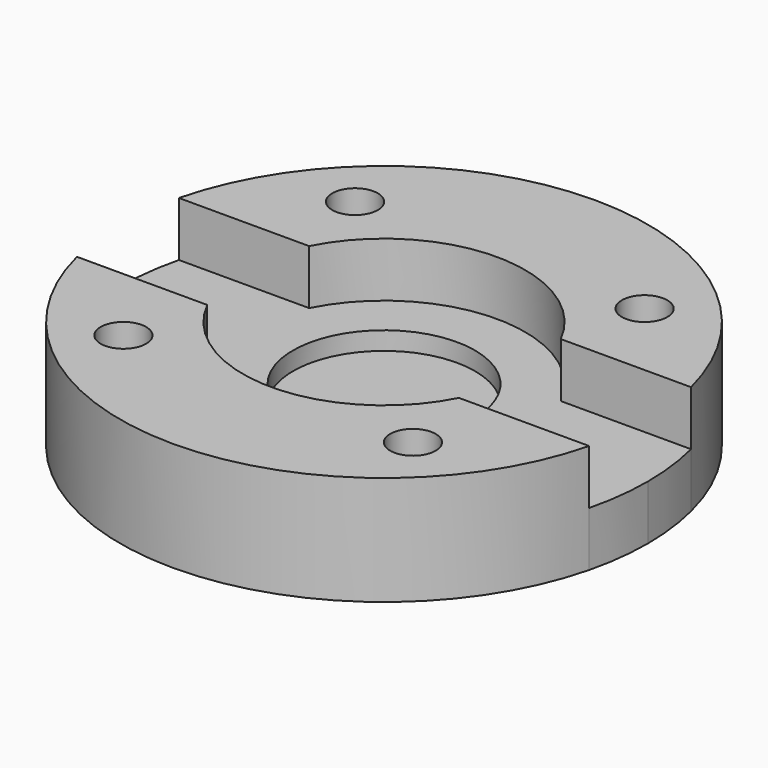
from build123d import *

# Parameters (mm, degrees)
F0_R     = 5
F2_DEPTH = 3
F0_R_2   = 1.25
F3_DEPTH = 6
F4_DEPTH = 2


with BuildPart() as f2:
    # F0 (on Top) → F2 (new body)
    with BuildSketch(Plane.XY):
        with BuildLine():
            Line((-6.914658343, 3.5), (-14.0712472795, 3.5))
            ThreePointArc((-14.0712472795, 3.5), (-14.5, 0), (-14.0712472795, -3.5))
            Line((-14.0712472795, -3.5), (-6.914658343, -3.5))
            ThreePointArc((-6.914658343, -3.5), (-7.75, 0), (-6.914658343, 3.5))
        make_face()
        with BuildLine():
            ThreePointArc((7.75, 0), (7.5382724201, 1.7991522784), (6.914658343, 3.5))
            ThreePointArc((6.914658343, 3.5), (0, 7.75), (-6.914658343, 3.5))
            ThreePointArc((-6.914658343, 3.5), (-7.75, 0), (-6.914658343, -3.5))
            ThreePointArc((-6.914658343, -3.5), (0, -7.75), (6.914658343, -3.5))
            ThreePointArc((6.914658343, -3.5), (7.5382724201, -1.7991522784), (7.75, 0))
        make_face()
        Circle(F0_R, mode=Mode.SUBTRACT)
        with BuildLine():
            ThreePointArc((14.0712472795, -3.5), (14.3924126809, -1.7630817405), (14.5, 0))
            ThreePointArc((14.5, 0), (14.3924126809, 1.7630817405), (14.0712472795, 3.5))
            Line((14.0712472795, 3.5), (6.914658343, 3.5))
            ThreePointArc((6.914658343, 3.5), (7.5382724201, 1.7991522784), (7.75, 0))
            ThreePointArc((7.75, 0), (7.5382724201, -1.7991522784), (6.914658343, -3.5))
            Line((6.914658343, -3.5), (14.0712472795, -3.5))
        make_face()
    extrude(amount=F2_DEPTH)

    # F0 (on Top) → F3 (join)
    with BuildSketch(Plane.XY):
        with BuildLine():
            Line((6.914658343, 3.5), (14.0712472795, 3.5))
            ThreePointArc((14.0712472795, 3.5), (0, 14.5), (-14.0712472795, 3.5))
            Line((-14.0712472795, 3.5), (-6.914658343, 3.5))
            ThreePointArc((-6.914658343, 3.5), (0, 7.75), (6.914658343, 3.5))
        make_face()
        with Locations((-7.9549512883, 7.9549512883)):
            Circle(F0_R_2, mode=Mode.SUBTRACT)
        with Locations((7.9549512883, 7.9549512883)):
            Circle(F0_R_2, mode=Mode.SUBTRACT)
        with BuildLine():
            ThreePointArc((-14.0712472795, -3.5), (0, -14.5), (14.0712472795, -3.5))
            Line((14.0712472795, -3.5), (6.914658343, -3.5))
            ThreePointArc((6.914658343, -3.5), (0, -7.75), (-6.914658343, -3.5))
            Line((-6.914658343, -3.5), (-14.0712472795, -3.5))
        make_face()
        with Locations((-7.9549512883, -7.9549512883)):
            Circle(F0_R_2, mode=Mode.SUBTRACT)
        with Locations((7.9549512883, -7.9549512883)):
            Circle(F0_R_2, mode=Mode.SUBTRACT)
    extrude(amount=F3_DEPTH)

    # F0 (on Top) → F4 (join)
    with BuildSketch(Plane.XY):
        Circle(F0_R)
    extrude(amount=F4_DEPTH)


solid = f2.part
